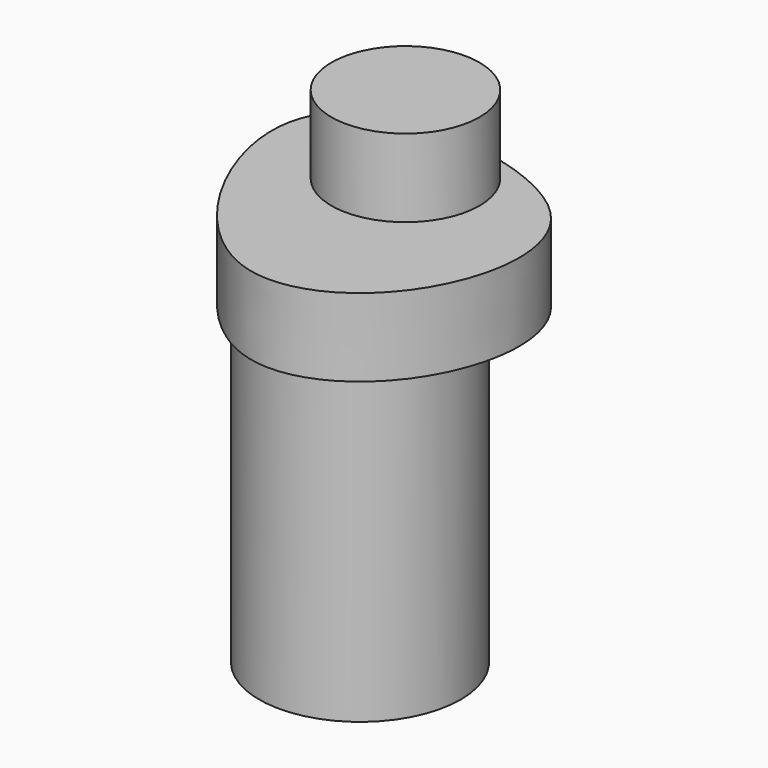
from build123d import *

# Parameters (mm, degrees)
F1_DEPTH = 25
F2_R     = 23.7436163123
F3_DEPTH = 25
F4_R     = 32.3163135732
F5_DEPTH = 104.2014211416


with BuildPart() as f1:
    # F0 (on Top) → F1 (new body)
    with BuildSketch(Plane.XY):
        with BuildLine():
            add(Edge.make_bspline(
                [(-31.5300449729, 38.4246408939), (-14.5154483453, 48.2438142241), (58.3085299853, 38.3369845792), (46.8008862793, -32.6025966669), (-3.6325200242, -57.8144427513), (-45.0924706036, -2.9290200915), (-43.9782145032, 31.2407659578), (-31.5300449729, 38.4246408939)],
                knots=[0, 0, 0, 0, 0.2351060923, 0.4352329658, 0.6159572426, 0.8279923669, 1, 1, 1, 1], degree=3))
        make_face()
    extrude(amount=F1_DEPTH)

    # F4 (on Top) → F5 (join)
    with BuildSketch(Plane.XY):
        Circle(F4_R)
    extrude(amount=-F5_DEPTH)


with BuildPart() as f3:
    # F2 (on face) → F3 (new body)
    with BuildSketch(Plane.XY.offset(25)):
        with Locations((0, 18.2331651449)):
            Circle(F2_R)
    extrude(amount=F3_DEPTH)


solid = Compound([f1.part, f3.part])
